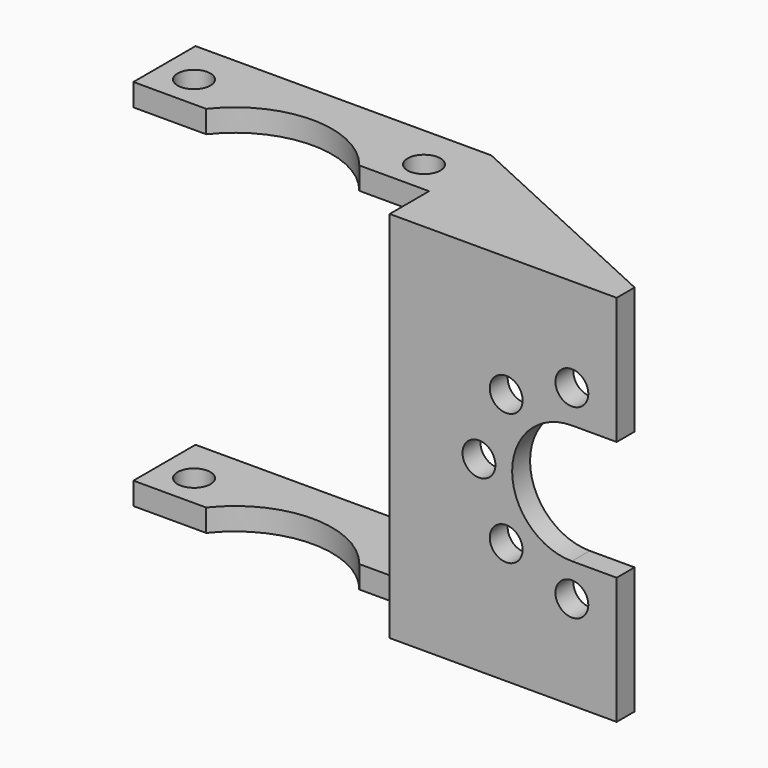
from build123d import *

# Parameters (mm, degrees)
F0_W      = 20
F0_H      = 1.5
F1_DEPTH  = 12.5
F2_W      = 20
F2_H      = 1.5
F3_DEPTH  = 8.5
F4_R      = 1.1
F5_DEPTH  = 1.5
F8_DEPTH  = 15
F9_R      = 1.1
F9_W      = 19.8
F9_H      = 25
F10_DEPTH = 3.3
F12_DEPTH = 25.001


with BuildPart() as f1:
    # F0 (on Top) → F1 (new body)
    with BuildSketch(Plane.XY):
        Rectangle(F0_W, F0_H)
    extrude(amount=F1_DEPTH)

    # F2 (on face) → F3 (join)
    with BuildSketch(Plane(origin=(0, 0.75, 0), x_dir=(-1, 0, 0), z_dir=(0, 1, 0))):
        with Locations((0, 11.75)):
            Rectangle(F2_W, F2_H)
    extrude(amount=F3_DEPTH)

    # F4 (on face) → F5 (cut, through all)
    with BuildSketch(Plane.XY.offset(12.5)):
        with Locations((-7.7, 4.75)):
            Circle(F4_R)
        with Locations((7.7, 4.75)):
            Circle(F4_R)
    extrude(amount=-F5_DEPTH, mode=Mode.SUBTRACT)

    # F6: F1 across plane


with BuildPart() as f1_1:
    add(f1.part)
    add(f1.part.mirror(Plane.XY))

    # F7 (on face) → F8 (join)
    with BuildSketch(Plane.YZ.offset(10)):
        Polygon((5.85, -12.5), (9.25, -12.5), (9.25, -11), (5.85, -11), (3.65, -11), (0.75, -11), (0.75, 11), (3.65, 11), (5.85, 11), (9.25, 11), (9.25, 12.5), (5.85, 12.5), (3.65, 12.5), (-0.75, 12.5), (-0.75, -12.5), (3.65, -12.5), align=None)
    extrude(amount=F8_DEPTH)

    # F9 (on face) → F10 (cut)
    with BuildSketch(Plane.XZ.offset(0.75)):
        with BuildLine():
            Line((25, 4), (22, 4))
            ThreePointArc((22, 4), (18, 0), (22, -4))
            Line((22, -4), (25, -4))
            Line((25, -4), (25, 4))
        make_face()
        with Locations((17.6, -4.4)):
            Circle(F9_R)
        with Locations((22, -6.2225396744)):
            Circle(F9_R)
        with Locations((22, 6.2225396744)):
            Circle(F9_R)
        with Locations((17.6, 4.4)):
            Circle(F9_R)
        with Locations((15.7774603256, 0)):
            Circle(F9_R)
        with Locations((-0.1, 0)):
            Rectangle(F9_W, F9_H)
    extrude(amount=-F10_DEPTH, mode=Mode.SUBTRACT)

    # F11 (on face) → F12 (cut, through all)
    with BuildSketch(Plane.XY.offset(12.5)):
        with BuildLine():
            Line((-5.123475383, 2.55), (5.123475383, 2.55))
            ThreePointArc((5.123475383, 2.55), (0, 5.05), (-5.123475383, 2.55))
        make_face()
        Polygon((-10, 9.25), (-10, 7.75), (9.8, 7.75), (25, 0.75), (25, 9.25), align=None)
        Polygon((-10, 9.25), (-10, 7.75), (9.8, 7.75), (25, 0.75), (25, 9.25), align=None)
    extrude(amount=-F12_DEPTH, mode=Mode.SUBTRACT)


solid = f1_1.part
